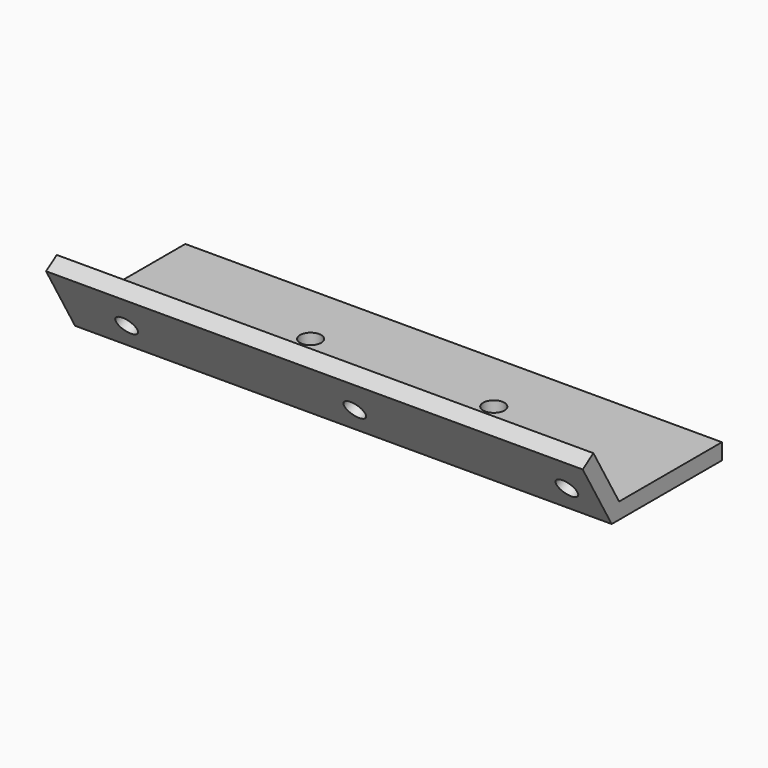
from build123d import *

# Parameters (mm, degrees)
F1_DEPTH = 167
F3_D     = 6.6
F5_D     = 6.6


with BuildPart() as f1:
    # F0 (on Right) → F1 (new body)
    with BuildSketch(Plane.YZ):
        Polygon((-22.8742525516, 0), (20, 0), (20, 5), (-20, 5), (-30, 22.3205080757), (-34.1563406595, 19.5411498184), align=None)
    extrude(amount=F1_DEPTH)

    # F3 (through all)
    with Locations(Plane.XY.offset(5)):
        with Locations((112, 0), (55, 0)):
            Hole(F3_D / 2)

    # F5 (through all)
    with Locations(Plane(origin=(0, -17.1556894137, -9.9048419011), x_dir=(1, 0, 0), z_dir=(0, -0.8660254038, -0.5))):
        with Locations((20, 21.3301270189), (91, 21.3301270189), (157, 21.3301270189)):
            Hole(F5_D / 2)


solid = f1.part
